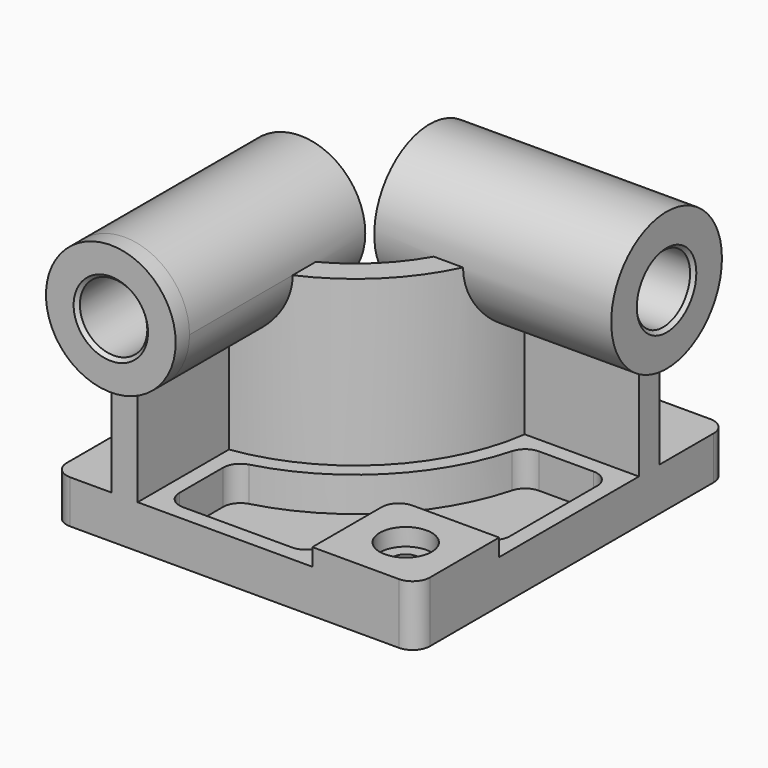
from build123d import *

# Parameters (mm, degrees)
F0_W            = 210
F0_H            = 225
F1_DEPTH        = 25
F3_DEPTH        = 95
F4_R            = 37.5
F5_DEPTH        = 10
F5_DEPTH_BACK   = 127
F6_R            = 40
F7_DEPTH        = 10
F7_DEPTH_BACK   = 127
F8_W            = 60
F8_H            = 60
F9_DEPTH        = 10
F10_R           = 10
F12_DEPTH       = 20
F14_D           = 15
F14_CBORE_D     = 30
F14_CBORE_DEPTH = 10
F15_R           = 10
F16_R           = 19.5
F17_DEPTH       = 235.001
F18_R           = 19.5
F19_DEPTH       = 220.001
F20_SIZE        = 2
F21_R           = 10


with BuildPart() as f1:
    # F0 (on Top) → F1 (new body)
    with BuildSketch(Plane.XY):
        Rectangle(F0_W, F0_H)
    extrude(amount=F1_DEPTH)

    # F2 (on face) → F3 (join)
    with BuildSketch(Plane.XY.offset(25)):
        with BuildLine():
            Line((-71, -32.5), (-71, -112.5))
            Line((-71, -112.5), (-56.000002, -112.5))
            Line((-56.000002, -112.5), (-56.000002, -46.481815))
            ThreePointArc((-56.000002, -46.481815), (7.488851, -14.988851), (38.981815, 48.500002))
            Line((38.981815, 48.500002), (105, 48.500002))
            Line((105, 48.500002), (105, 63.5))
            Line((105, 63.5), (25, 63.5))
            ThreePointArc((25, 63.5), (-3.117749, -4.382251), (-71, -32.5))
        make_face()
    extrude(amount=F3_DEPTH)

    # F4 (on face) → F5 (join, two sides)
    with BuildSketch(Plane.XZ.offset(112.5)) as f5_sk:
        with Locations((-63.500001, 120)):
            Circle(F4_R)
    extrude(amount=F5_DEPTH)
    extrude(f5_sk.sketch, amount=-F5_DEPTH_BACK)

    # F6 (on face) → F7 (join, two sides)
    with BuildSketch(Plane.YZ.offset(105)) as f7_sk:
        with Locations((56.000001, 120)):
            Circle(F6_R)
    extrude(amount=F7_DEPTH)
    extrude(f7_sk.sketch, amount=-F7_DEPTH_BACK)

    # F8 (on face) → F9 (join)
    with BuildSketch(Plane.XY.offset(25)):
        with Locations((75, -82.5)):
            Rectangle(F8_W, F8_H)
    extrude(amount=F9_DEPTH)

    # F10
    f10_edges = [f1.edges().sort_by_distance(p)[0] for p in [
        (45, -52.5, 30),
    ]]
    fillet(f10_edges, radius=F10_R)

    # F11 (on face) → F12 (cut)
    with BuildSketch(Plane.XY.offset(25)):
        with BuildLine():
            ThreePointArc((46.575506, 39.500002), (13.852813, -21.352813), (-47.000002, -54.075506))
            Line((-47.000002, -54.075506), (-47.000002, -103.5))
            Line((-47.000002, -103.5), (36, -103.5))
            Line((36, -103.5), (36, -62.5))
            ThreePointArc((36, -62.5), (41.564971, -49.064971), (55, -43.5))
            Line((55, -43.5), (96, -43.5))
            Line((96, -43.5), (96, 39.500002))
            Line((96, 39.500002), (46.575506, 39.500002))
        make_face()
    extrude(amount=-F12_DEPTH, mode=Mode.SUBTRACT)

    # F14 (through all)
    with Locations(Plane.XY.offset(35)):
        with Locations((75, -82.5)):
            CounterBoreHole(F14_D / 2, F14_CBORE_D / 2, F14_CBORE_DEPTH)

    # F15
    f15_edges = [f1.edges().sort_by_distance(p)[0] for p in [
        (-47.000002, -54.075506, 15),
        (46.575506, 39.500002, 15),
        (96, 39.500002, 15),
        (-47.000002, -103.5, 15),
        (36, -103.5, 15),
        (96, -43.5, 15),
    ]]
    fillet(f15_edges, radius=F15_R)

    # F16 (on face) → F17 (cut, through all)
    with BuildSketch(Plane.XZ.offset(122.5)):
        with Locations((-63.500001, 120)):
            Circle(F16_R)
    extrude(amount=-F17_DEPTH, mode=Mode.SUBTRACT)

    # F18 (on face) → F19 (cut, through all)
    with BuildSketch(Plane.YZ.offset(115)):
        with Locations((56.000001, 120)):
            Circle(F18_R)
    extrude(amount=-F19_DEPTH, mode=Mode.SUBTRACT)

    # F20
    f20_edges = [f1.edges().sort_by_distance(p)[0] for p in [
        (-83.000001, -122.5, 120),
        (115, 36.500001, 120),
        (-22, 36.500001, 120),
        (-83.000001, 14.5, 120),
    ]]
    chamfer(f20_edges, length=F20_SIZE)

    # F21
    f21_edges = [f1.edges().sort_by_distance(p)[0] for p in [
        (-105, -112.5, 12.5),
        (105, -112.5, 17.5),
        (105, 112.5, 12.5),
        (-105, 112.5, 12.5),
    ]]
    fillet(f21_edges, radius=F21_R)


solid = f1.part
